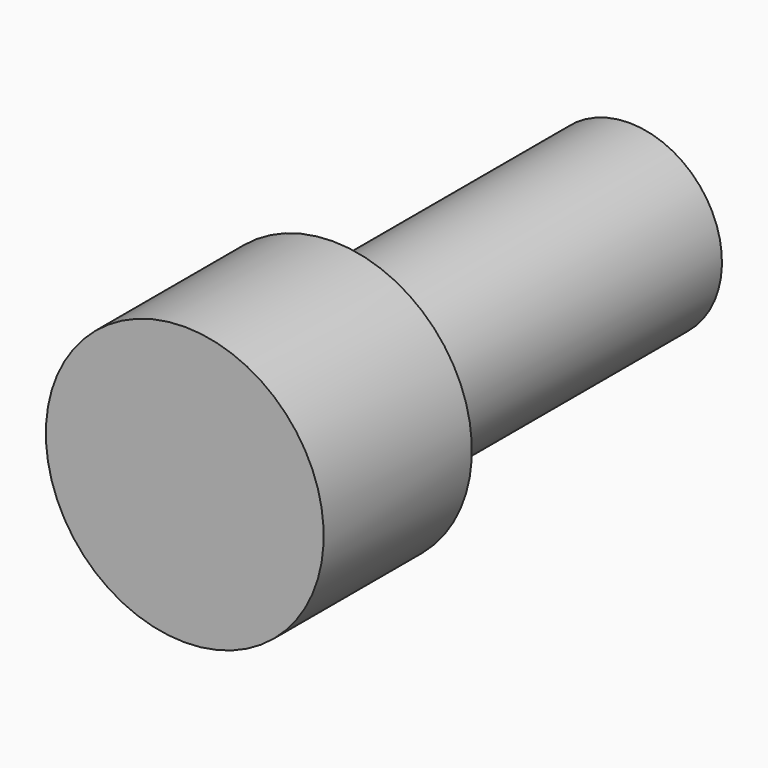
from build123d import *


with BuildPart() as part:
    # Sketch → Revolution (revolve)
    with BuildSketch(Plane.YZ):
        Polygon((-2, 0), (-2, 1.5), (0, 1.5), (0, 1), (4, 1), (4, 0), align=None)
    revolve(axis=Axis((0, 0, 0), (0, 1, 0)))


solid = part.part
